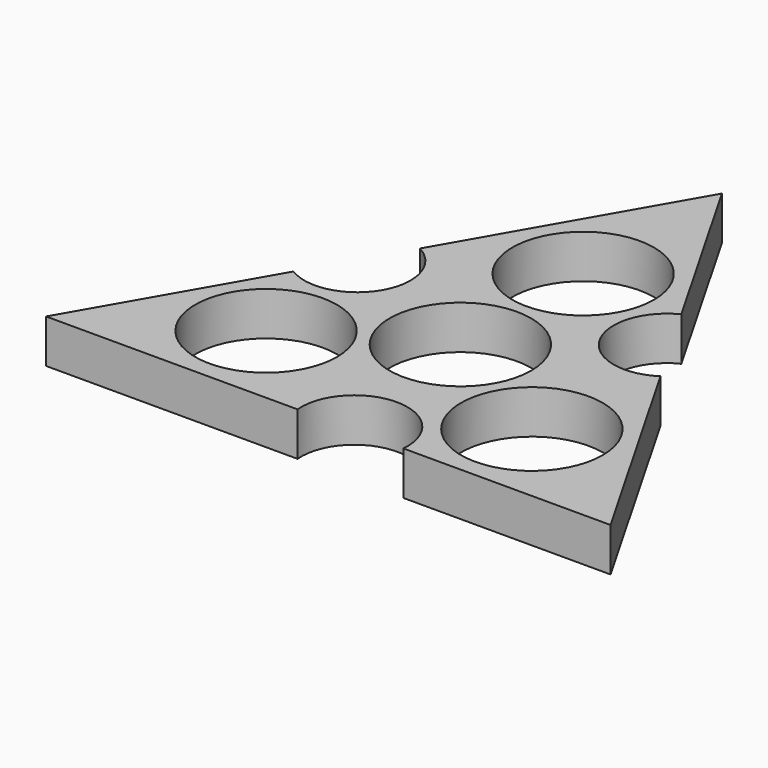
from build123d import *

# Parameters (mm, degrees)
F0_R     = 13
F1_DEPTH = 8


with BuildPart() as f1:
    # F0 (on Top) → F1 (new body)
    with BuildSketch(Plane.XY):
        with BuildLine():
            Line((18.874942, 27.093094), (0, 60))
            Line((0, 60), (-23.146747, 19.645556))
            ThreePointArc((-23.146747, 19.645556), (-19.273662, 6.196532), (-32.838122, 2.749441))
            Line((-32.838122, 2.749441), (-51.791029, -30.293388))
            Line((-51.791029, -30.293388), (-5.637906, -30.293388))
            ThreePointArc((-5.637906, -30.293388), (4.064441, -19.649861), (13.766789, -30.293388))
            Line((13.766789, -30.293388), (51.791029, -30.293388))
            Line((51.791029, -30.293388), (28.552507, 10.221058))
            ThreePointArc((28.552507, 10.221058), (14.737726, 13.508569), (18.874942, 27.093094))
        make_face()
        with Locations((-24.390228, -14.081704)):
            Circle(F0_R, mode=Mode.SUBTRACT)
        with Locations((24.390229, -14.081704)):
            Circle(F0_R, mode=Mode.SUBTRACT)
        Circle(F0_R, mode=Mode.SUBTRACT)
        with Locations((0, 28.163411)):
            Circle(F0_R, mode=Mode.SUBTRACT)
    extrude(amount=F1_DEPTH)


solid = f1.part
